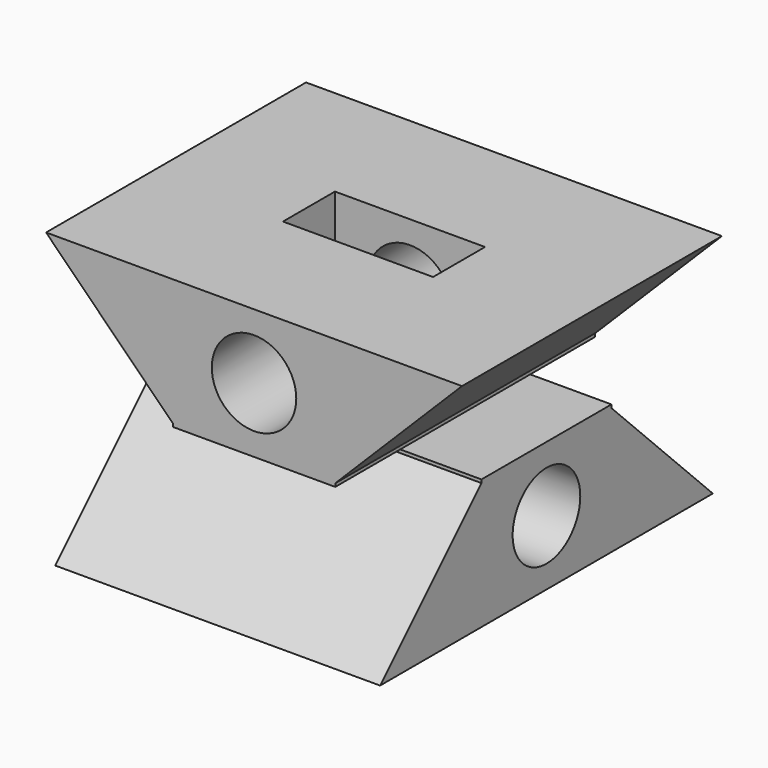
from build123d import *

# Parameters (mm, degrees)
F1_DEPTH  = 10
F4_DEPTH  = 2
F7_R      = 2.6
F8_DEPTH  = 10
F9_DEPTH  = 10
F10_DEPTH = 2
F6_R      = 2.6
F11_DEPTH = 10


with BuildPart() as f1:
    # F0 (on Front) → F1 (new body, symmetric)
    with BuildSketch(Plane.XZ):
        Polygon((12.8, 8), (0, 8), (-12.8, 8), (-5, 0.2), (-5, 0), (0, 0), (5, 0), (5, 0.2), align=None)
    extrude(amount=F1_DEPTH, both=True)

    # F3 (on Front) → F4 (cut, symmetric)
    with BuildSketch(Plane.XZ):
        Polygon((2.3094010768, 0), (4.6188021535, 4), (4.6188021535, 8), (-4.6188021535, 8), (-4.6188021535, 4), (-2.3094010768, 0), align=None)
    extrude(amount=F4_DEPTH, both=True, mode=Mode.SUBTRACT)

    # F7 (on Front) → F8 (cut, symmetric)
    with BuildSketch(Plane.XZ):
        with Locations((0, 4)):
            Circle(F7_R)
    extrude(amount=F8_DEPTH, both=True, mode=Mode.SUBTRACT)

    # F2 (on Right) → F9 (join, symmetric)
    with BuildSketch(Plane.YZ):
        Polygon((-5, 0), (-5, -0.2), (-12.8, -8), (0, -8), (12.8, -8), (5, -0.2), (5, 0), (0, 0), align=None)
    extrude(amount=F9_DEPTH, both=True)

    # F5 (on Right) → F10 (cut, symmetric)
    with BuildSketch(Plane.YZ):
        Polygon((-2.3094010768, 0), (-4.6188021535, -4), (-4.6188021535, -8), (4.6188021535, -8), (4.6188021535, -4), (2.3094010768, 0), align=None)
    extrude(amount=F10_DEPTH, both=True, mode=Mode.SUBTRACT)

    # F6 (on Right) → F11 (cut, symmetric)
    with BuildSketch(Plane.YZ):
        with Locations((0, -4)):
            Circle(F6_R)
    extrude(amount=F11_DEPTH, both=True, mode=Mode.SUBTRACT)


solid = f1.part
